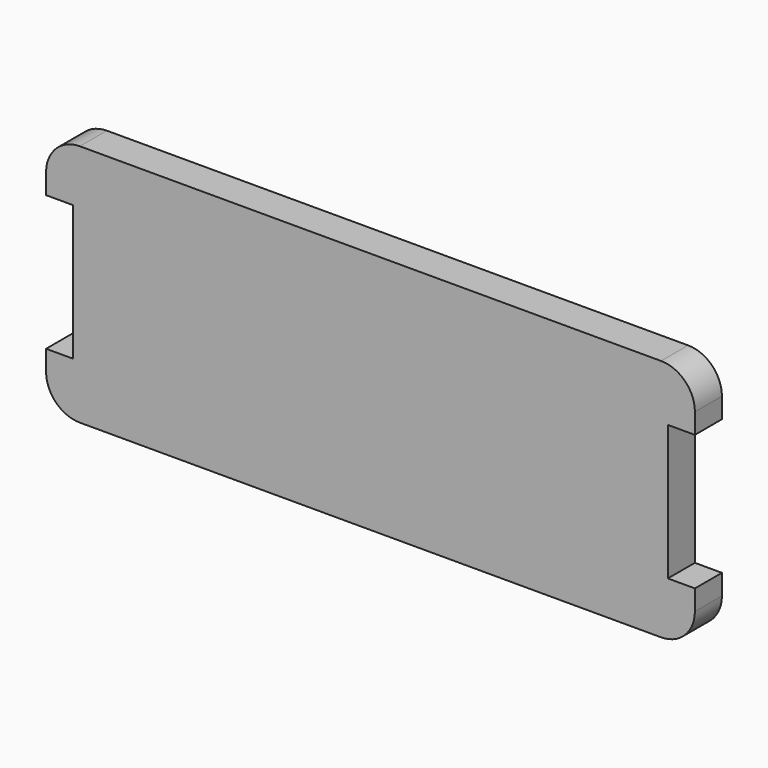
from build123d import *

# Parameters (mm, degrees)
F2_DEPTH = 25
F1_W     = 20
F1_H     = 100
F3_DEPTH = 25.001


with BuildPart() as f2:
    # F0 (on Front) → F2 (new body)
    with BuildSketch(Plane.XZ):
        with BuildLine():
            Line((215, 90), (-215, 90))
            ThreePointArc((-215, 90), (-232.67767, 82.67767), (-240, 65))
            Line((-240, 65), (-240, -65))
            ThreePointArc((-240, -65), (-232.67767, -82.67767), (-215, -90))
            Line((-215, -90), (215, -90))
            ThreePointArc((215, -90), (232.67767, -82.67767), (240, -65))
            Line((240, -65), (240, 65))
            ThreePointArc((240, 65), (232.67767, 82.67767), (215, 90))
        make_face()
    extrude(amount=-F2_DEPTH)

    # F1 (on Front) → F3 (cut, through all)
    with BuildSketch(Plane.XZ):
        with Locations((-230, 0)):
            Rectangle(F1_W, F1_H)
        with Locations((230, 0)):
            Rectangle(F1_W, F1_H)
    extrude(amount=-F3_DEPTH, mode=Mode.SUBTRACT)


solid = f2.part
